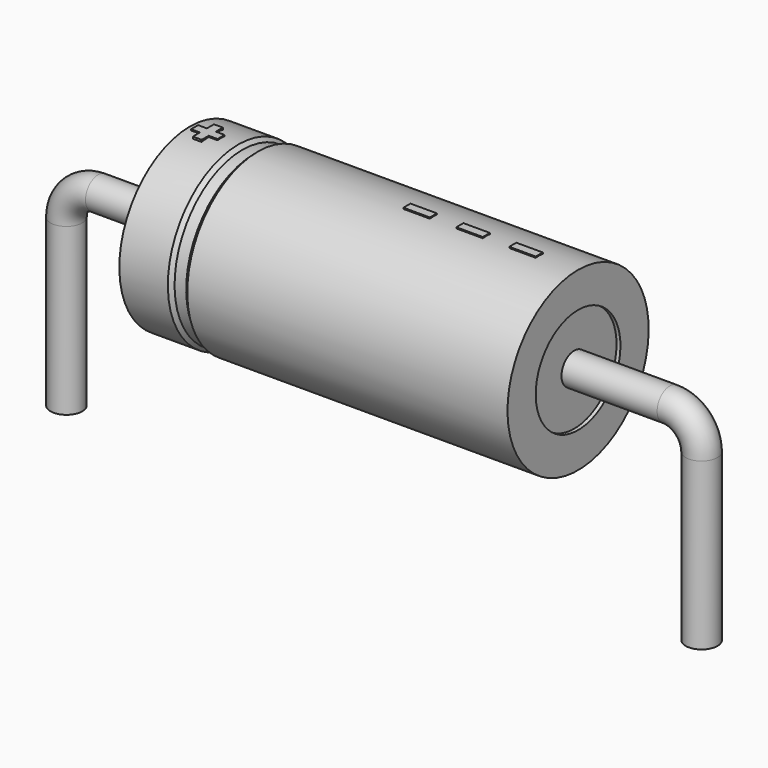
from build123d import *

# Parameters (mm, degrees)
SKETCH_R    = 0.45
SKETCH004_W = 0.75
SKETCH004_H = 0.25
PAD_DEPTH   = 2.525


with BuildPart() as sweep_body:
    # Sweep: sweep along a path in Sketch001
    with BuildLine(Plane.XZ) as sweep_path:
        Line((0, -3), (0, 1.7))
        ThreePointArc((0, 1.7), (0.263601, 2.336393), (0.89999, 2.6))
        Line((0.89999, 2.6), (17.1, 2.6))
        ThreePointArc((17.1, 2.6), (17.736396, 2.336396), (18, 1.7))
        Line((18, 1.7), (18, -3))
    # Sketch → Sweep (sweep)
    with BuildSketch(Plane.XY.offset(-2)):
        Circle(SKETCH_R)
    sweep(path=sweep_path.line)


with BuildPart() as revolution:
    # Sketch002 → Revolution (revolve)
    with BuildSketch(Plane.XZ):
        Polygon((3.5, 5.1), (3.5, 4.1), (14.5, 4.1), (14.5, 5.1), (5.425, 5.1), (5.315, 5), (4.985, 5), (4.875, 5.1), align=None)
    revolve(axis=Axis((6.97588, 0, 2.6), (1, 0, 0)))


with BuildPart() as revolution001:
    # Sketch003 → Revolution001 (revolve)
    with BuildSketch(Plane.XZ):
        Polygon((3.61, 5), (4.16, 5), (4.16, 2.85), (13.84, 2.85), (13.84, 5), (14.39, 5), (14.39, 2.6), (3.61, 2.6), align=None)
    revolve(axis=Axis((6.97588, 0, 2.6), (1, 0, 0)))


with BuildPart() as pad:
    # Sketch004 → Pad (new body)
    with BuildSketch(Plane.XY.offset(2.6)):
        with Locations((13.025, 0)):
            Rectangle(SKETCH004_W, SKETCH004_H)
        with Locations((11.525, 0)):
            Rectangle(SKETCH004_W, SKETCH004_H)
        with Locations((10.025, 0)):
            Rectangle(SKETCH004_W, SKETCH004_H)
        Polygon((3.882, 0.125), (3.632, 0.125), (3.632, -0.125), (3.882, -0.125), (3.882, -0.375), (4.132, -0.375), (4.132, -0.125), (4.382, -0.125), (4.382, 0.125), (4.132, 0.125), (4.132, 0.375), (3.882, 0.375), align=None)
    extrude(amount=PAD_DEPTH)


solid = Compound([sweep_body.part, revolution.part, revolution001.part, pad.part])
